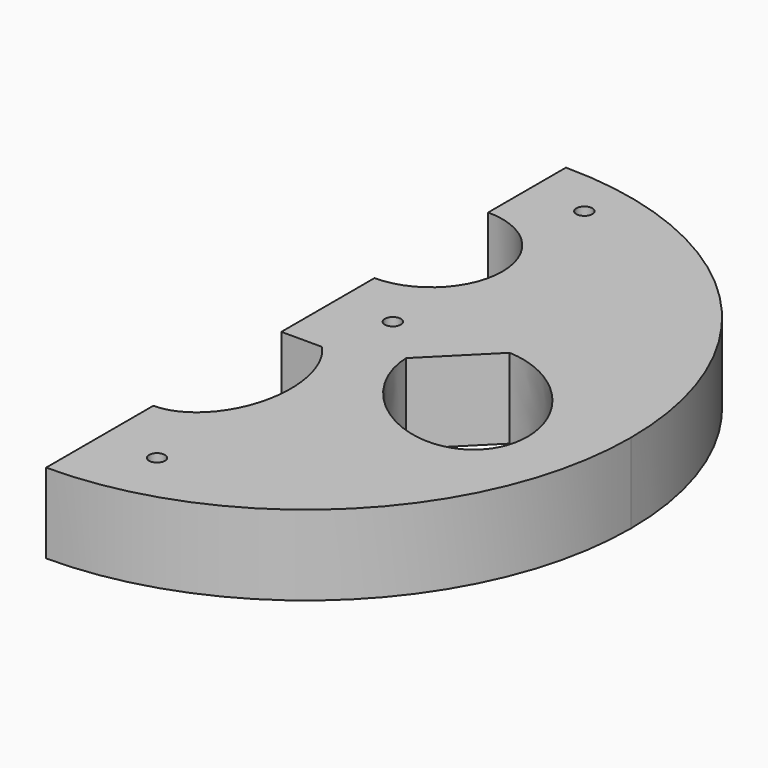
from build123d import *

# Parameters (mm, degrees)
F0_R     = 2.5
F1_DEPTH = 25


with BuildPart() as f1:
    # F0 (on Top) → F1 (new body)
    with BuildSketch(Plane.XY):
        with BuildLine():
            ThreePointArc((0, -101.6), (71.8420489686, -71.8420489686), (101.6, 0))
            ThreePointArc((101.6, 0), (71.8420489686, 71.8420489686), (0, 101.6))
            Line((0, 101.6), (0, 71.1865920172))
            ThreePointArc((0, 71.1865920172), (15.7154482119, 64.6770402291), (22.225, 48.9615920172))
            ThreePointArc((22.225, 48.9615920172), (15.7154482119, 33.2461438053), (0, 26.7365920172))
            Line((0, 26.7365920172), (0, -3.6768159656))
            add(Edge.make_bspline(
                [(12.7, -9.6491897187), (7.1079154509, -3.6768159656), (0, -3.6768159656)],
                knots=[2.476306927, 2.476306927, 2.476306927, 3.1415926536, 3.1415926536, 3.1415926536], degree=2, weights=[1, 0.9451826392, 1]))
            add(Edge.make_bspline(
                [(0, -59.6871897187), (59.5518445491, -59.6871897187), (12.7, -9.6491897187)],
                knots=[0, 0, 0, 2.476306927, 2.476306927, 2.476306927], degree=2, weights=[1, 0.3265421544, 1]))
            Line((0, -59.6871897187), (0, -101.6))
        make_face()
        with Locations((17.9216420267, -80.6435948594)):
            Circle(F0_R, mode=Mode.SUBTRACT)
        with BuildLine():
            add(Edge.make_bspline(
                [(32.463825095, -1.46274532), (34.7167772203, -69.9742114288), (76.8262903331, -27.8646983159), (118.9358034459, 14.2448147969), (50.4243373372, 16.4977669222)],
                knots=[0.6652857266, 0.6652857266, 0.6652857266, 3.1415926536, 3.1415926536, 5.6178995806, 5.6178995806, 5.6178995806], degree=2, weights=[1, 0.3265421544, 1, 0.3265421544, 1]))
            add(Edge.make_bspline(
                [(50.4243373372, 16.4977669222), (31.8531235898, 17.1084684274), (32.463825095, -1.46274532)],
                knots=[5.6178995806, 5.6178995806, 5.6178995806, 6.9484710338, 6.9484710338, 6.9484710338], degree=2, weights=[1, 0.7867404428, 1]))
        make_face(mode=Mode.SUBTRACT)
        with Locations((17.9216420267, 11.5298880258)):
            Circle(F0_R, mode=Mode.SUBTRACT)
        with Locations((17.9216420267, 86.3932960086)):
            Circle(F0_R, mode=Mode.SUBTRACT)
        with BuildLine():
            Line((0, -3.6768159656), (0, -9.6491897187))
            Line((0, -9.6491897187), (12.7, -9.6491897187))
            add(Edge.make_bspline(
                [(12.7, -9.6491897187), (7.1079154509, -3.6768159656), (0, -3.6768159656)],
                knots=[2.476306927, 2.476306927, 2.476306927, 3.1415926536, 3.1415926536, 3.1415926536], degree=2, weights=[1, 0.9451826392, 1]))
        make_face()
        with BuildLine():
            add(Edge.make_bspline(
                [(50.4243373372, 16.4977669222), (31.8531235898, 17.1084684274), (32.463825095, -1.46274532)],
                knots=[5.6178995806, 5.6178995806, 5.6178995806, 6.9484710338, 6.9484710338, 6.9484710338], degree=2, weights=[1, 0.7867404428, 1]))
            Line((32.463825095, -1.46274532), (50.4243373372, 16.4977669222))
        make_face()
    extrude(amount=F1_DEPTH)


solid = f1.part
